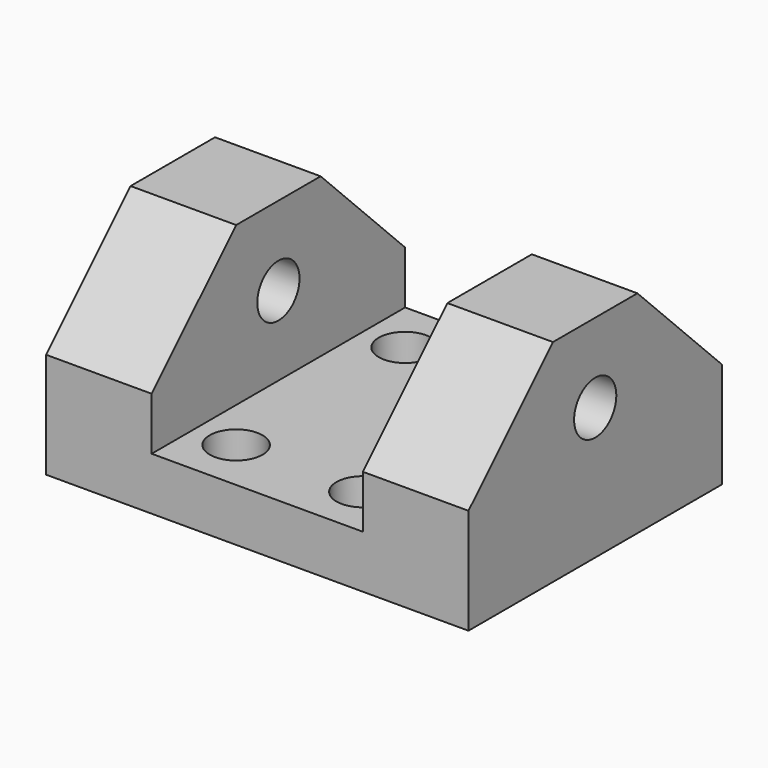
from build123d import *

# Parameters (mm, degrees)
F0_W     = 101.6
F0_H     = 76.2
F1_DEPTH = 50.8
F2_W     = 50.8
F2_H     = 76.2
F3_DEPTH = 38.1
F4_SIZE  = 25.4
F5_R     = 6.35
F6_DEPTH = 101.601
F7_R     = 6.35
F8_DEPTH = 12.7


with BuildPart() as f1:
    # F0 (on Top) → F1 (new body)
    with BuildSketch(Plane.XY):
        Rectangle(F0_W, F0_H)
    extrude(amount=F1_DEPTH)

    # F2 (on face) → F3 (cut)
    with BuildSketch(Plane.XY.offset(50.8)):
        Rectangle(F2_W, F2_H)
    extrude(amount=-F3_DEPTH, mode=Mode.SUBTRACT)

    # F4
    f4_edges = [f1.edges().sort_by_distance(p)[0] for p in [
        (-38.1, -38.1, 50.8),
        (38.1, -38.1, 50.8),
        (-38.1, 38.1, 50.8),
        (38.1, 38.1, 50.8),
    ]]
    chamfer(f4_edges, length=F4_SIZE)

    # F5 (on face) → F6 (cut, through all)
    with BuildSketch(Plane.YZ.offset(50.8)):
        with Locations((0, 31.75)):
            Circle(F5_R)
    extrude(amount=-F6_DEPTH, mode=Mode.SUBTRACT)

    # F7 (on face) → F8 (cut, through all)
    with BuildSketch(Plane.XY.offset(12.7)):
        with Locations((-15.24, -25.4)):
            Circle(F7_R)
        with Locations((-15.24, 25.4)):
            Circle(F7_R)
        with Locations((15.24, -25.4)):
            Circle(F7_R)
        with Locations((15.24, 25.4)):
            Circle(F7_R)
    extrude(amount=-F8_DEPTH, mode=Mode.SUBTRACT)


solid = f1.part
